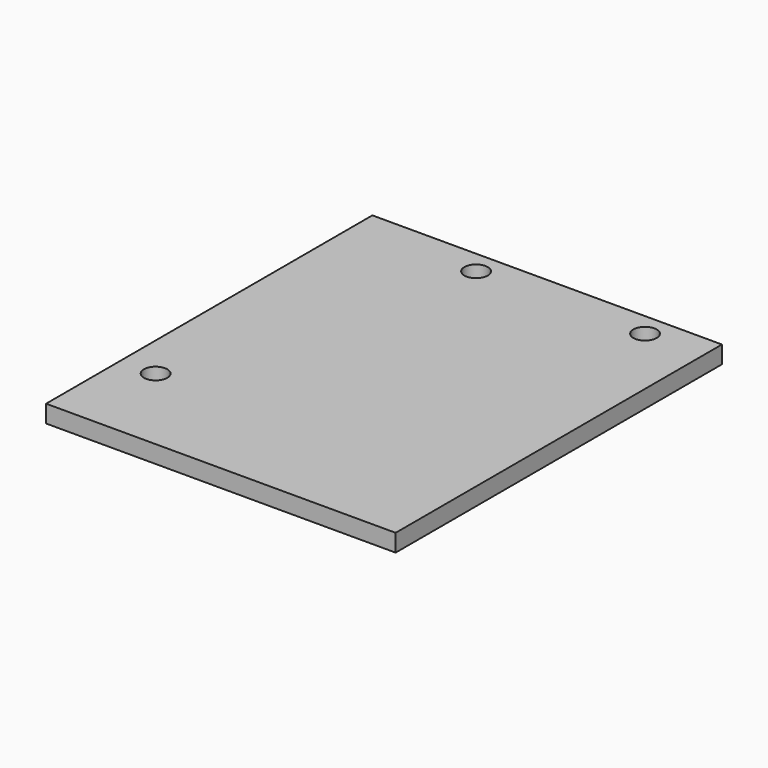
from build123d import *

# Parameters (mm, degrees)
F0_W     = 60
F0_H     = 70
F0_W_2   = 54
F0_H_2   = 68
F1_DEPTH = 3
F0_R     = 2
F2_DEPTH = 3


with BuildPart() as f1:
    # F0 (on Top) → F1 (new body)
    with BuildSketch(Plane.XY):
        with Locations((-3.057709, 16.794372)):
            Rectangle(F0_W, F0_H)
        with Locations((-3.057709, 16.794372)):
            Rectangle(F0_W_2, F0_H_2, mode=Mode.SUBTRACT)
    extrude(amount=F1_DEPTH)

    # F0 (on Top) → F2 (join)
    with BuildSketch(Plane.XY):
        with Locations((-3.057709, 16.794372)):
            Rectangle(F0_W_2, F0_H_2)
        with Locations((-27.057709, -2.205628)):
            Circle(F0_R, mode=Mode.SUBTRACT)
        with Locations((-12.057709, 47.794372)):
            Circle(F0_R, mode=Mode.SUBTRACT)
        with Locations((16.942291, 47.794372)):
            Circle(F0_R, mode=Mode.SUBTRACT)
    extrude(amount=F2_DEPTH)


solid = f1.part
